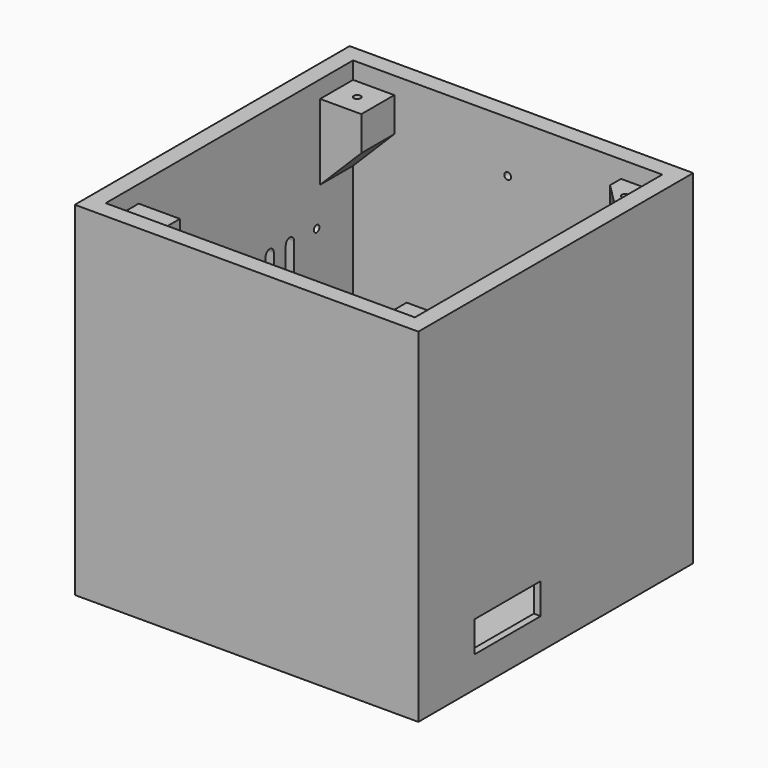
from build123d import *

# Parameters (mm, degrees)
SKETCH_W                        = 100
SKETCH_H                        = 100
PAD_DEPTH                       = 100
SKETCH001_W                     = 90
SKETCH001_H                     = 90
POCKET_DEPTH                    = 95
POCKET001_DEPTH                 = 45
SKETCH003_R                     = 4
SKETCH003_R_2                   = 1
SKETCH003_R_3                   = 2.75
PAD001_DEPTH                    = 10
SKETCH004_W                     = 24
SKETCH004_H                     = 9
POCKET002_DEPTH                 = 5
SKETCH005_W                     = 5
SKETCH005_H                     = 10
POCKET003_DEPTH                 = 6
SKETCH006_W                     = 15
SKETCH006_H                     = 25
POCKET004_DEPTH                 = 3
SKETCH007_R                     = 1
POCKET005_DEPTH                 = 4
POCKET006_DEPTH                 = 6
POCKET006_LINEARPATTERN_2_DEPTH = 6
POCKET006_LINEARPATTERN_3_DEPTH = 6
POCKET006_LINEARPATTERN_4_DEPTH = 6
LINEARPATTERN001_COUNT          = 2
LINEARPATTERN001_PITCH          = 22
SKETCH009_R                     = 1
POCKET007_DEPTH                 = 4
SKETCH010_R                     = 1
POCKET008_DEPTH                 = 4
PAD002_DEPTH                    = 12
PAD002_MIRRORED001_2_DEPTH      = 12
LINEARPATTERN002_COUNT          = 2
LINEARPATTERN002_PITCH          = 78
SKETCH012_R                     = 1
POCKET009_DEPTH                 = 10
POCKET010_DEPTH                 = 20


with BuildPart() as part:
    # Sketch → Pad (new body)
    with BuildSketch(Plane.XY):
        Rectangle(SKETCH_W, SKETCH_H)
    extrude(amount=PAD_DEPTH)

    # Sketch001 (on Face6 of Pad) → Pocket (cut)
    with BuildSketch(Plane.XY.offset(100)):
        Rectangle(SKETCH001_W, SKETCH001_H)
    extrude(amount=-POCKET_DEPTH, mode=Mode.SUBTRACT)

    # Sketch002 → Pocket001 (cut)
    with BuildSketch(Plane.XZ):
        Polygon((28, 5), (48, 5), (48, 23), (28, 43), align=None)
    pocket001 = extrude(amount=-POCKET001_DEPTH, mode=Mode.SUBTRACT)

    # Mirrored: Pocket001 across XZ
    add(pocket001.mirror(Plane.XZ), mode=Mode.SUBTRACT)

    # Sketch003 (on Face11 of Mirrored) → Pad001 (join)
    with BuildSketch(Plane.XY.offset(5)):
        with Locations((-23, 36)):
            Circle(SKETCH003_R)
        with Locations((-23, 36)):
            Circle(SKETCH003_R_2, mode=Mode.SUBTRACT)
        with Locations((38, 36)):
            Circle(SKETCH003_R_3)
        with Locations((38, 36)):
            Circle(SKETCH003_R_2, mode=Mode.SUBTRACT)
        with Locations((44, -36)):
            Circle(SKETCH003_R_3)
        with Locations((44, -36)):
            Circle(SKETCH003_R_2, mode=Mode.SUBTRACT)
        with Locations((-23, -36)):
            Circle(SKETCH003_R_3)
        with Locations((-23, -36)):
            Circle(SKETCH003_R_2, mode=Mode.SUBTRACT)
    extrude(amount=PAD001_DEPTH)

    # Sketch004 (on Face23 of Pad001) → Pocket002 (cut)
    with BuildSketch(Plane(origin=(48, 0, 0), x_dir=(0, -1, 0), z_dir=(-1, 0, 0))):
        with Locations((17.5, 13.5)):
            Rectangle(SKETCH004_W, SKETCH004_H)
    extrude(amount=-POCKET002_DEPTH, mode=Mode.SUBTRACT)

    # Sketch005 (on Face16 of Pocket002) → Pocket003 (cut)
    with BuildSketch(Plane.XY.offset(5)):
        with Locations((16.5, -3)):
            Rectangle(SKETCH005_W, SKETCH005_H)
    extrude(amount=-POCKET003_DEPTH, mode=Mode.SUBTRACT)

    # Sketch006 (on Face4 of Pocket003) → Pocket004 (cut)
    with BuildSketch(Plane(origin=(0, 0, 0), x_dir=(1, 0, 0), z_dir=(0, 0, -1))):
        with Locations((16.5, 3)):
            Rectangle(SKETCH006_W, SKETCH006_H)
    extrude(amount=-POCKET004_DEPTH, mode=Mode.SUBTRACT)

    # Sketch007 (on Face15 of Pocket004) → Pocket005 (cut)
    with BuildSketch(Plane.YZ.offset(-45)):
        with Locations((-31.75, 62.25)):
            Circle(SKETCH007_R)
        with Locations((31.75, 62.25)):
            Circle(SKETCH007_R)
        with Locations((-31.75, 37.75)):
            Circle(SKETCH007_R)
        with Locations((31.75, 37.75)):
            Circle(SKETCH007_R)
    extrude(amount=-POCKET005_DEPTH, mode=Mode.SUBTRACT)

    # Sketch008 (on Face15 of Pocket005) → Pocket006 (cut)
    with BuildSketch(Plane.YZ.offset(-45)):
        with BuildLine():
            ThreePointArc((1.5, 62.5), (0, 64), (-1.5, 62.5))
            Line((-1.5, 62.5), (-1.5, 37.5))
            ThreePointArc((-1.5, 37.5), (0, 36), (1.5, 37.5))
            Line((1.5, 37.5), (1.5, 62.5))
        make_face()
    pocket006 = extrude(amount=-POCKET006_DEPTH, mode=Mode.SUBTRACT)

    # Sketch008 LinearPattern 2 → Pocket006 LinearPattern 2 (cut)
    with BuildSketch(Plane(origin=(-45, 7.333333, 0), x_dir=(0, 1, 0), z_dir=(1, 0, 0))):
        with BuildLine():
            ThreePointArc((1.5, 62.5), (0, 64), (-1.5, 62.5))
            Line((-1.5, 62.5), (-1.5, 37.5))
            ThreePointArc((-1.5, 37.5), (0, 36), (1.5, 37.5))
            Line((1.5, 37.5), (1.5, 62.5))
        make_face()
    pocket006_linearpattern_2 = extrude(amount=-POCKET006_LINEARPATTERN_2_DEPTH, mode=Mode.SUBTRACT)

    # Sketch008 LinearPattern 3 → Pocket006 LinearPattern 3 (cut)
    with BuildSketch(Plane(origin=(-45, 14.666667, 0), x_dir=(0, 1, 0), z_dir=(1, 0, 0))):
        with BuildLine():
            ThreePointArc((1.5, 62.5), (0, 64), (-1.5, 62.5))
            Line((-1.5, 62.5), (-1.5, 37.5))
            ThreePointArc((-1.5, 37.5), (0, 36), (1.5, 37.5))
            Line((1.5, 37.5), (1.5, 62.5))
        make_face()
    pocket006_linearpattern_3 = extrude(amount=-POCKET006_LINEARPATTERN_3_DEPTH, mode=Mode.SUBTRACT)

    # Sketch008 LinearPattern 4 → Pocket006 LinearPattern 4 (cut)
    with BuildSketch(Plane(origin=(-45, 22, 0), x_dir=(0, 1, 0), z_dir=(1, 0, 0))):
        with BuildLine():
            ThreePointArc((1.5, 62.5), (0, 64), (-1.5, 62.5))
            Line((-1.5, 62.5), (-1.5, 37.5))
            ThreePointArc((-1.5, 37.5), (0, 36), (1.5, 37.5))
            Line((1.5, 37.5), (1.5, 62.5))
        make_face()
    pocket006_linearpattern_4 = extrude(amount=-POCKET006_LINEARPATTERN_4_DEPTH, mode=Mode.SUBTRACT)

    # LinearPattern001: Pocket006, Pocket006 LinearPattern 2, Pocket006 LinearPattern 3, Pocket006 LinearPattern 4 ×2
    with Locations(*[(0, -i * LINEARPATTERN001_PITCH, 0) for i in range(1, LINEARPATTERN001_COUNT)]):
        add(pocket006, mode=Mode.SUBTRACT)
        add(pocket006_linearpattern_2, mode=Mode.SUBTRACT)
        add(pocket006_linearpattern_3, mode=Mode.SUBTRACT)
        add(pocket006_linearpattern_4, mode=Mode.SUBTRACT)

    # Sketch009 (on Face45 of MultiTransform) → Pocket007 (cut)
    with BuildSketch(Plane(origin=(45, 0, 0), x_dir=(0, -1, 0), z_dir=(-1, 0, 0))):
        with Locations((0, 80)):
            Circle(SKETCH009_R)
        with Locations((0, 35)):
            Circle(SKETCH009_R)
    extrude(amount=-POCKET007_DEPTH, mode=Mode.SUBTRACT)

    # Sketch010 (on Face46 of Pocket007) → Pocket008 (cut)
    with BuildSketch(Plane.XZ.offset(-45)):
        with Locations((0, 85)):
            Circle(SKETCH010_R)
        with Locations((0, 60)):
            Circle(SKETCH010_R)
    extrude(amount=-POCKET008_DEPTH, mode=Mode.SUBTRACT)

    # Sketch011 (on Face46 of Pocket008) → Pad002 (join)
    with BuildSketch(Plane.XZ.offset(-45)):
        Polygon((-45, 95), (-33, 95), (-33, 85), (-45, 73), align=None)
    pad002 = extrude(amount=PAD002_DEPTH)

    # Sketch011 Mirrored001 2 → Pad002 Mirrored001 2 (add)
    with BuildSketch(Plane(origin=(0, 45, 0), x_dir=(-1, 0, 0), z_dir=(0, 1, 0))):
        Polygon((-45, 95), (-33, 95), (-33, 85), (-45, 73), align=None)
    pad002_mirrored001_2 = extrude(amount=-PAD002_MIRRORED001_2_DEPTH)

    # LinearPattern002: Pad002, Pad002 Mirrored001 2 ×2
    with Locations(*[(0, -i * LINEARPATTERN002_PITCH, 0) for i in range(1, LINEARPATTERN002_COUNT)]):
        add(pad002)
        add(pad002_mirrored001_2)

    # Sketch012 (on Face55 of MultiTransform001) → Pocket009 (cut)
    with BuildSketch(Plane.XY.offset(95)):
        with Locations((-39, 39)):
            Circle(SKETCH012_R)
        with Locations((39, 39)):
            Circle(SKETCH012_R)
        with Locations((39, -39)):
            Circle(SKETCH012_R)
        with Locations((-39, -39)):
            Circle(SKETCH012_R)
    extrude(amount=-POCKET009_DEPTH, mode=Mode.SUBTRACT)

    # Sketch013 (on Face70 of Pocket009) → Pocket010 (cut)
    with BuildSketch(Plane.XY.offset(95)):
        Polygon((32, 42), (42, 32), (32, 32), align=None)
    extrude(amount=-POCKET010_DEPTH, mode=Mode.SUBTRACT)


solid = part.part
